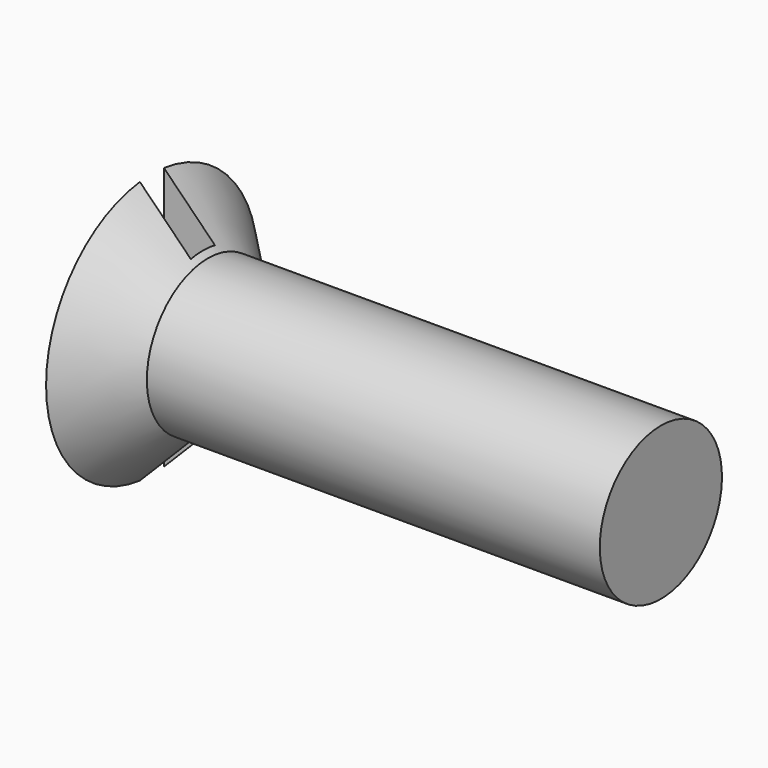
from build123d import *

# Parameters (mm, degrees)
F2_W     = 0.591972
F2_H     = 6.072902
F3_DEPTH = 1


with BuildPart() as f1:
    # F0 (on Front) → F1 (revolve)
    with BuildSketch(Plane.XZ):
        Polygon((0, 2.6), (0, 0), (10, 0), (10, 1.5), (1.1, 1.5), align=None)
    revolve(axis=Axis((5, 0, 0), (-1, 0, 0)))

    # F2 (on face) → F3 (cut)
    with BuildSketch(Plane(origin=(0, 0, 0), x_dir=(0, -1, 0), z_dir=(-1, 0, 0))):
        Rectangle(F2_W, F2_H)
    extrude(amount=-F3_DEPTH, mode=Mode.SUBTRACT)


solid = f1.part
